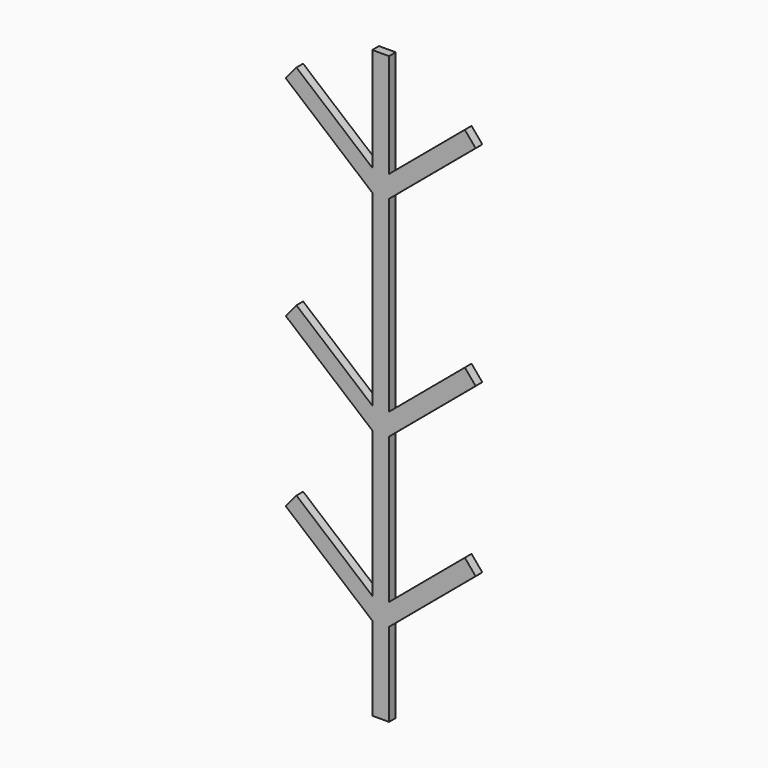
from build123d import *

# Parameters (mm, degrees)
F1_DEPTH = 20


with BuildPart() as f1:
    # F0 (on Front) → F1 (new body)
    with BuildSketch(Plane.XZ):
        Polygon((-52.090994, 840.9694), (-52.090994, 893.185692), (-233.21149, 1045.163832), (-258.922994, 1014.522055), align=None)
        Polygon((169.029501, 1045.163832), (-12.090994, 893.185692), (-12.090994, 840.9694), (194.741005, 1014.522055), align=None)
        Polygon((-12.090994, 1140.9694), (-52.090994, 1140.9694), (-52.090994, 893.185692), (-52.090994, 840.9694), (-52.090994, 393.185692), (-52.090994, 340.9694), (-52.090994, -6.814308), (-52.090994, -59.0306), (-52.090994, -259.0306), (-12.090994, -259.0306), (-12.090994, -59.0306), (-12.090994, -6.814308), (-12.090994, 340.9694), (-12.090994, 393.185692), (-12.090994, 840.9694), (-12.090994, 893.185692), align=None)
        Polygon((-52.090994, 340.9694), (-52.090994, 393.185692), (-233.21149, 545.163832), (-258.922994, 514.522055), align=None)
        Polygon((169.029501, 545.163832), (-12.090994, 393.185692), (-12.090994, 340.9694), (194.741005, 514.522055), align=None)
        Polygon((-52.090994, -59.0306), (-52.090994, -6.814308), (-233.21149, 145.163832), (-258.922994, 114.522055), align=None)
        Polygon((169.029501, 145.163832), (-12.090994, -6.814308), (-12.090994, -59.0306), (194.741005, 114.522055), align=None)
    extrude(amount=F1_DEPTH)


solid = f1.part
